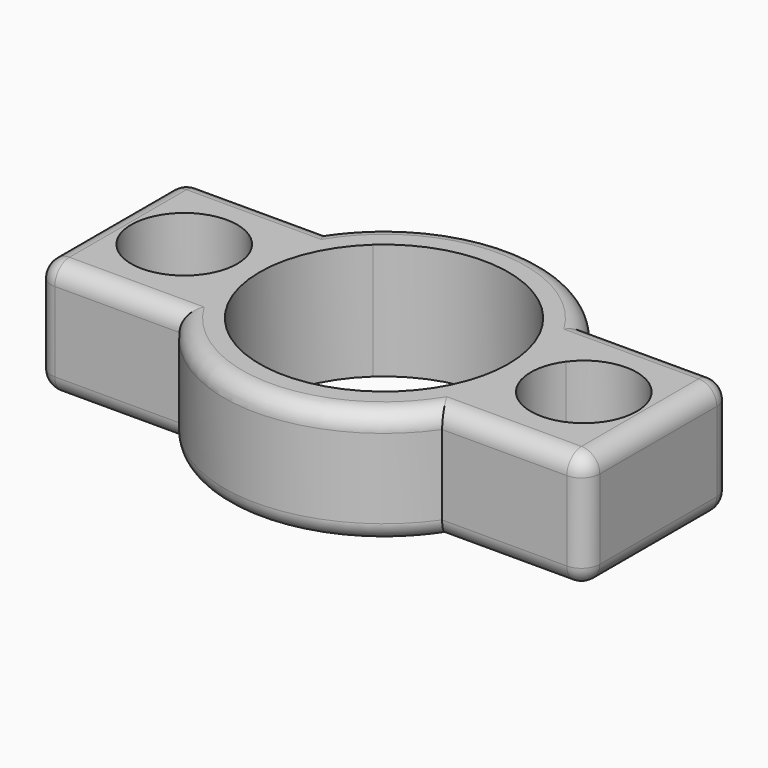
from build123d import *

# Parameters (mm, degrees)
F1_DEPTH = 12.7
F2_R     = 2


with BuildPart() as f1:
    # F0 (on Top) → F1 (new body)
    with BuildSketch(Plane.XY):
        with BuildLine():
            ThreePointArc((-17.164541762, -3.4100595449), (-16.1036698951, -6.8499500663), (-14.3614066163, -10))
            Line((-14.3614066163, -10), (-9.2173748974, -10))
            ThreePointArc((-9.2173748974, -10), (-13.6, 0), (-9.2173748974, 10))
            Line((-9.2173748974, 10), (-14.3614066163, 10))
            ThreePointArc((-14.3614066163, 10), (-16.1036698951, 6.8499500663), (-17.164541762, 3.4100595449))
            ThreePointArc((-17.164541762, 3.4100595449), (-16.3393623105, 1.7930134566), (-16.055, 0))
            ThreePointArc((-16.055, 0), (-16.3393623105, -1.7930134566), (-17.164541762, -3.4100595449))
        make_face()
        with BuildLine():
            Line((9.2173748974, 10), (14.3614066163, 10))
            ThreePointArc((14.3614066163, 10), (0, 17.5), (-14.3614066163, 10))
            Line((-14.3614066163, 10), (-9.2173748974, 10))
            ThreePointArc((-9.2173748974, 10), (0, 13.6), (9.2173748974, 10))
        make_face()
        with BuildLine():
            ThreePointArc((-14.3614066163, -10), (0, -17.5), (14.3614066163, -10))
            Line((14.3614066163, -10), (9.2173748974, -10))
            ThreePointArc((9.2173748974, -10), (0, -13.6), (-9.2173748974, -10))
            Line((-9.2173748974, -10), (-14.3614066163, -10))
        make_face()
        with BuildLine():
            Line((9.2173748974, -10), (14.3614066163, -10))
            ThreePointArc((14.3614066163, -10), (16.1036698951, -6.8499500663), (17.164541762, -3.4100595449))
            ThreePointArc((17.164541762, -3.4100595449), (16.055, 0), (17.164541762, 3.4100595449))
            ThreePointArc((17.164541762, 3.4100595449), (16.1036698951, 6.8499500663), (14.3614066163, 10))
            Line((14.3614066163, 10), (9.2173748974, 10))
            ThreePointArc((9.2173748974, 10), (12.4562494075, 5.4591071337), (13.6, 0))
            ThreePointArc((13.6, 0), (12.4562494075, -5.4591071337), (9.2173748974, -10))
        make_face()
        with BuildLine():
            Line((14.3614066163, -10), (30, -10))
            Line((30, -10), (30, 10))
            Line((30, 10), (14.3614066163, 10))
            ThreePointArc((14.3614066163, 10), (16.1036698951, 6.8499500663), (17.164541762, 3.4100595449))
            ThreePointArc((17.164541762, 3.4100595449), (23.6430134566, 5.5106376895), (27.645, 0))
            ThreePointArc((27.645, 0), (23.6430134566, -5.5106376895), (17.164541762, -3.4100595449))
            ThreePointArc((17.164541762, -3.4100595449), (16.1036698951, -6.8499500663), (14.3614066163, -10))
        make_face()
        with BuildLine():
            Line((-30, -10), (-14.3614066163, -10))
            ThreePointArc((-14.3614066163, -10), (-16.1036698951, -6.8499500663), (-17.164541762, -3.4100595449))
            ThreePointArc((-17.164541762, -3.4100595449), (-27.645, 0), (-17.164541762, 3.4100595449))
            ThreePointArc((-17.164541762, 3.4100595449), (-16.1036698951, 6.8499500663), (-14.3614066163, 10))
            Line((-14.3614066163, 10), (-30, 10))
            Line((-30, 10), (-30, -10))
        make_face()
    extrude(amount=F1_DEPTH)

    # F2
    f2_edges = [f1.edges().sort_by_distance(p)[0] for p in [
        (-22.180703, -10, 12.7),
        (0, -17.5, 12.7),
        (22.180703, -10, 12.7),
        (30, 0, 12.7),
        (-30, 0, 12.7),
        (-22.180703, 10, 12.7),
        (0, 17.5, 12.7),
        (22.180703, 10, 12.7),
        (30, 10, 6.35),
        (-30, 10, 6.35),
        (-30, -10, 6.35),
        (30, -10, 6.35),
        (0, -17.5, 0),
        (-22.180703, -10, 0),
        (-30, 0, 0),
        (-22.180703, 10, 0),
        (0, 17.5, 0),
        (22.180703, 10, 0),
        (30, 0, 0),
        (22.180703, -10, 0),
    ]]
    fillet(f2_edges, radius=F2_R)


solid = f1.part
